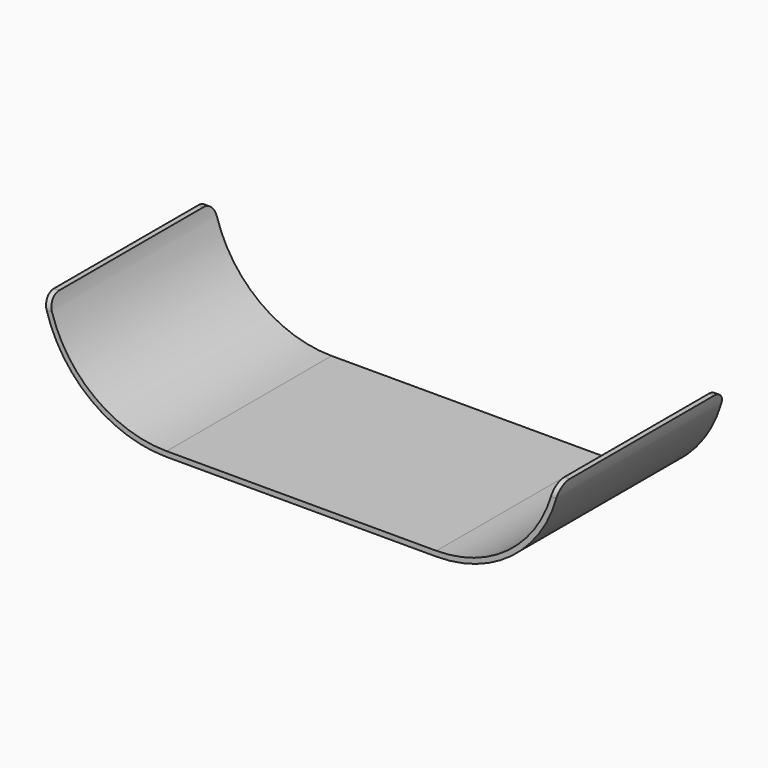
from build123d import *

# Parameters (mm, degrees)
F1_DEPTH = 80
F3_R     = 5


with BuildPart() as f1:
    # F0 (on Front) → F1 (new body)
    with BuildSketch(Plane.XZ):
        with BuildLine():
            Line((-52.3298562962, 0), (0, 0))
            Line((0, 0), (0, 2))
            Line((0, 2), (-52.3298562962, 2))
            ThreePointArc((-52.3298562962, 2), (-82.0233760889, 12.7436715119), (-97.9677842805, 40))
            Line((-97.9677842805, 40), (-100, 40))
            ThreePointArc((-100, 40), (-83.4443328334, 11.3247433143), (-52.3298562962, 0))
        make_face()
    extrude(amount=F1_DEPTH)

    # F2: F1 across face


with BuildPart() as f1_1:
    add(f1.part)
    add(f1.part.mirror(Plane(origin=(0, -40, 1), x_dir=(0, 1, 0), z_dir=(1, 0, 0))))

    # F3
    f3_edges = [f1_1.edges().sort_by_distance(p)[0] for p in [
        (-98.983892, -80, 40),
        (-98.983892, 0, 40),
        (98.983892, -80, 40),
        (98.983892, 0, 40),
    ]]
    fillet(f3_edges, radius=F3_R)


solid = f1_1.part
